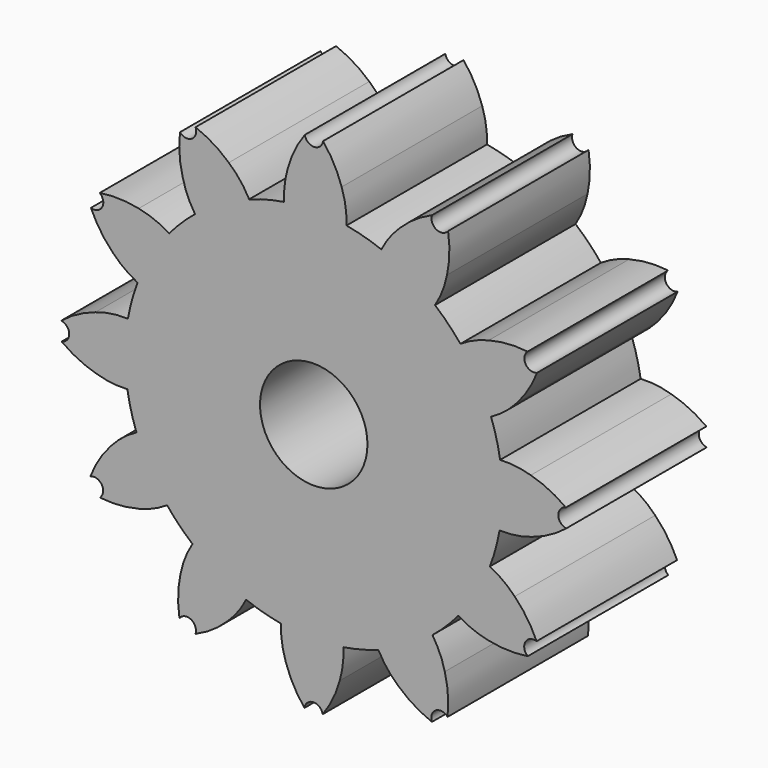
from build123d import *

# Parameters (mm, degrees)
F0_R     = 7.6453811345
F1_DEPTH = 25
F2_COUNT = 12


with BuildPart() as f1:
    # F0 (on Front) → F1 (new body)
    with BuildSketch(Plane.XZ):
        with BuildLine():
            ThreePointArc((-4.199583616, 26.5301707062), (0.2331271007, 26.859488305), (4.6594538037, 26.4532786342))
            ThreePointArc((4.6594538037, 26.4532786342), (4.5311676373, 28.7913934414), (3.9730198519, 31.0655326722))
            ThreePointArc((3.9730198519, 31.0655326722), (2.8779662016, 33.6301332845), (1.3244981356, 35.9459605158))
            ThreePointArc((1.3244981356, 35.9459605158), (0.0510003023, 34.8088199887), (-1.2719943746, 35.8879726168))
            ThreePointArc((-1.2719943746, 35.8879726168), (-2.7205256231, 33.5051012356), (-3.6999932599, 30.8941699945))
            ThreePointArc((-3.6999932599, 30.8941699945), (-4.1411626969, 28.7340788632), (-4.199583616, 26.5301707062))
        make_face()
        with BuildLine():
            ThreePointArc((-4.199583616, 26.5301707062), (-17.4453940129, -20.4241202499), (26.8605, 0))
            ThreePointArc((26.8605, 0), (20.5747626857, 17.2674723303), (4.6594538037, 26.4532786342))
            ThreePointArc((4.6594538037, 26.4532786342), (0.2331271007, 26.859488305), (-4.199583616, 26.5301707062))
        make_face()
        Circle(F0_R, mode=Mode.SUBTRACT)
    extrude(amount=F1_DEPTH)

    # F2: F1 ×12 about axis
    f2_axis = Axis((0, 0, 0), (0, 1, 0))


with BuildPart() as f1_1:
    add(f1.part)
    for i in range(1, F2_COUNT):
        add(f1.part.rotate(f2_axis, i * 360 / F2_COUNT))


solid = f1_1.part
